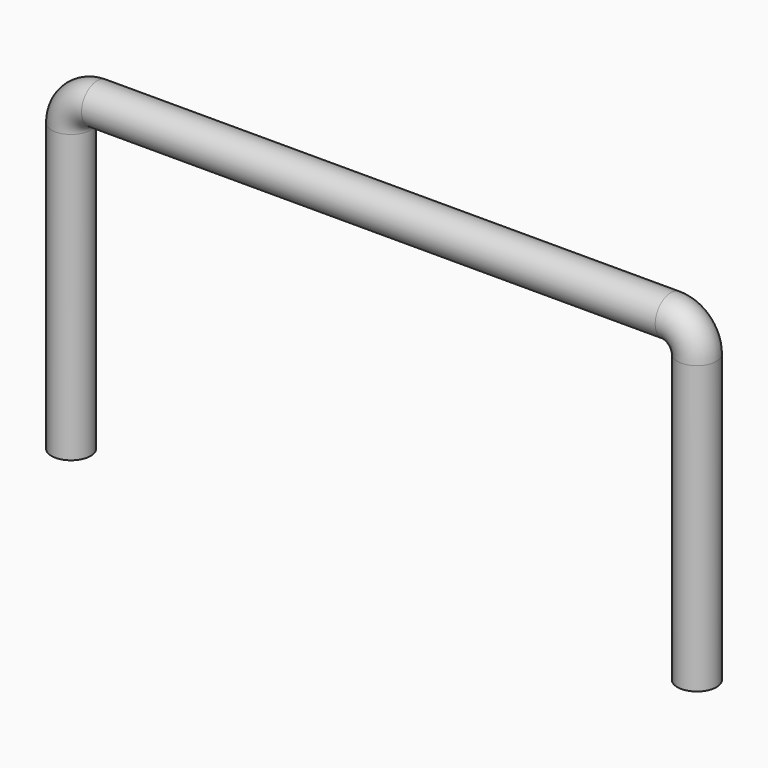
from build123d import *

# Parameters (mm, degrees)
F0_R = 4.7625


with BuildPart() as f2:
    # F2: sweep along a path in F1
    with BuildLine(Plane.XZ) as f2_path:
        Line((76.2, 0), (76.2, 69.85))
        ThreePointArc((76.2, 69.85), (74.3401280605, 74.3401280605), (69.85, 76.2))
        Line((69.85, 76.2), (0, 76.2))
        Line((0, 76.2), (-69.85, 76.2))
        ThreePointArc((-69.85, 76.2), (-74.3401280605, 74.3401280605), (-76.2, 69.85))
        Line((-76.2, 69.85), (-76.2, 0))
    # F0 (on Top) → F2 (sweep)
    with BuildSketch(Plane.XY):
        with Locations((76.2, 0)):
            Circle(F0_R)
    sweep(path=f2_path.line)


solid = f2.part
